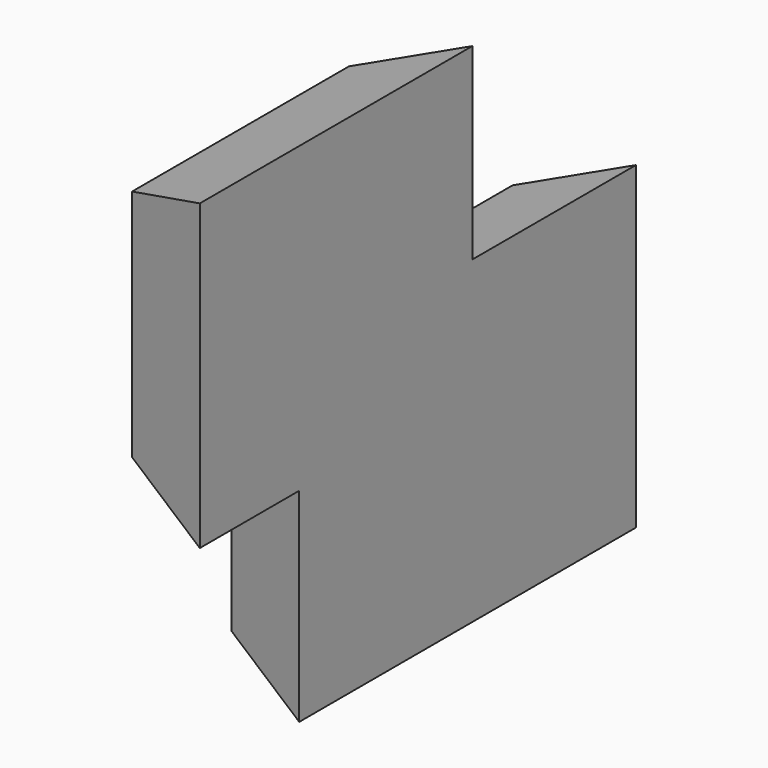
from build123d import *

# Parameters (mm, degrees)
F1_DEPTH = 25.4
F1_TAPER = -20


with BuildPart() as f1:
    # F0 (on Right) → F1 (new body)
    with BuildSketch(Plane.YZ):
        Polygon((9.6752736717, 53.5460449755), (-62.3435713351, 53.5460449755), (-62.3435713351, -8.5929548368), (-29.3240994215, -8.5929548368), (-29.3240994215, -62.67208606), (64.0144050121, -62.67208606), (64.0144050121, 3.626848571), (9.6752736717, 3.626848571), align=None)
    extrude(amount=F1_DEPTH, taper=F1_TAPER)


solid = f1.part
